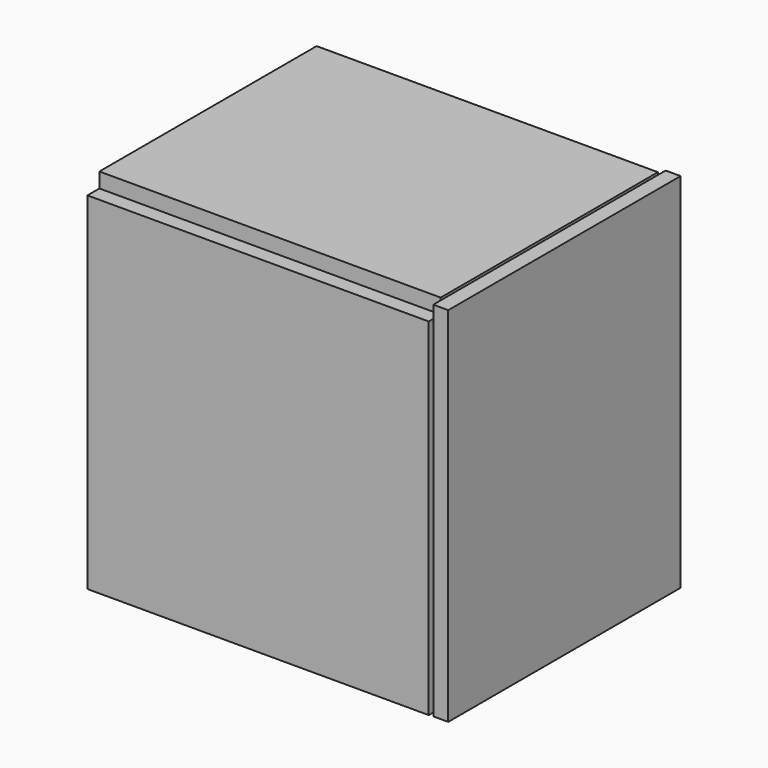
from build123d import *

# Parameters (mm, degrees)
F0_W     = 144.885704
F0_H     = 147.105403
F1_DEPTH = 6.35
F2_W     = 144.885704
F2_H     = 115.267791
F3_DEPTH = 6.35
F5_DEPTH = 6.35
F7_W     = 123.286622
F7_H     = 153.862923
F8_DEPTH = 6.35


with BuildPart() as f1:
    # F0 (on Front) → F1 (new body)
    with BuildSketch(Plane.XZ):
        with Locations((2.623282, -0.807163)):
            Rectangle(F0_W, F0_H)
    extrude(amount=F1_DEPTH)


with BuildPart() as f3:
    # F2 (on face) → F3 (new body)
    with BuildSketch(Plane.XY.offset(72.745539)):
        with Locations((2.623282, 57.633895)):
            Rectangle(F2_W, F2_H)
    extrude(amount=F3_DEPTH)


with BuildPart() as f5:
    # F4 (on Right) → F5 (new body)
    with BuildSketch(Plane.YZ):
        Polygon((-2.86189, 71.89966), (-2.86189, -57.431653), (61.921746, -57.431653), (61.921746, 11.816087), (61.921746, 71.89966), align=None)
    extrude(amount=F5_DEPTH)


with BuildPart() as f8:
    # F7 (on offset) → F8 (new body)
    with BuildSketch(Plane.YZ.offset(76.2)):
        with Locations((56.288949, 2.062067)):
            Rectangle(F7_W, F7_H)
    extrude(amount=F8_DEPTH)


solid = Compound([f1.part, f3.part, f5.part, f8.part])
